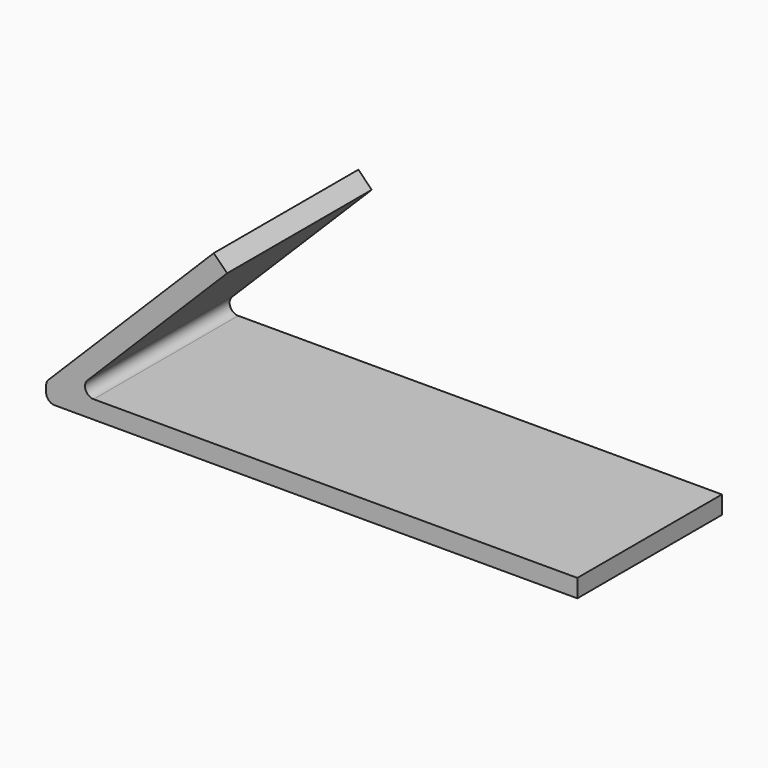
from build123d import *

# Parameters (mm, degrees)
F1_DEPTH = 9.525


with BuildPart() as f1:
    # F0 (on Front) → F1 (new body, symmetric)
    with BuildSketch(Plane.XZ):
        with BuildLine():
            Line((-27.093069, -0.95), (28, -0.95))
            Line((28, -0.95), (28, 0.95))
            Line((28, 0.95), (-22.987166, 0.95))
            ThreePointArc((-22.987166, 0.95), (-23.825061, 1.509864), (-23.628463, 2.498228))
            Line((-23.628463, 2.498228), (-8.910676, 17.216015))
            Line((-8.910676, 17.216015), (-10.32233, 18.62767))
            Line((-10.32233, 18.62767), (-27.734366, 1.215634))
            ThreePointArc((-27.734366, 1.215634), (-27.930964, 0.921404), (-28, 0.574337))
            Line((-28, 0.574337), (-28, -0.043069))
            ThreePointArc((-28, -0.043069), (-27.734366, -0.684366), (-27.093069, -0.95))
        make_face()
    extrude(amount=F1_DEPTH, both=True)


solid = f1.part
